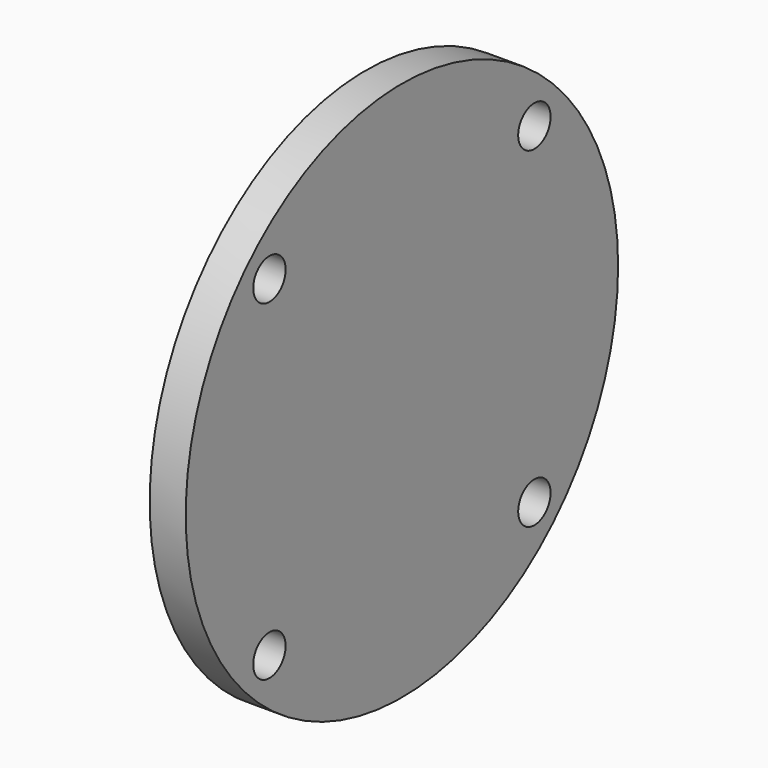
from build123d import *

# Parameters (mm, degrees)
F0_R     = 47.625
F0_R_2   = 3.5687
F1_DEPTH = 6.35


with BuildPart() as f1:
    # F0 (on Right) → F1 (new body)
    with BuildSketch(Plane.YZ):
        Circle(F0_R)
        with Locations((-29.1846, -29.1846)):
            Circle(F0_R_2, mode=Mode.SUBTRACT)
        with Locations((29.1846, -29.1846)):
            Circle(F0_R_2, mode=Mode.SUBTRACT)
        with Locations((-29.1846, 29.1846)):
            Circle(F0_R_2, mode=Mode.SUBTRACT)
        with Locations((29.1846, 29.1846)):
            Circle(F0_R_2, mode=Mode.SUBTRACT)
    extrude(amount=-F1_DEPTH)


solid = f1.part
